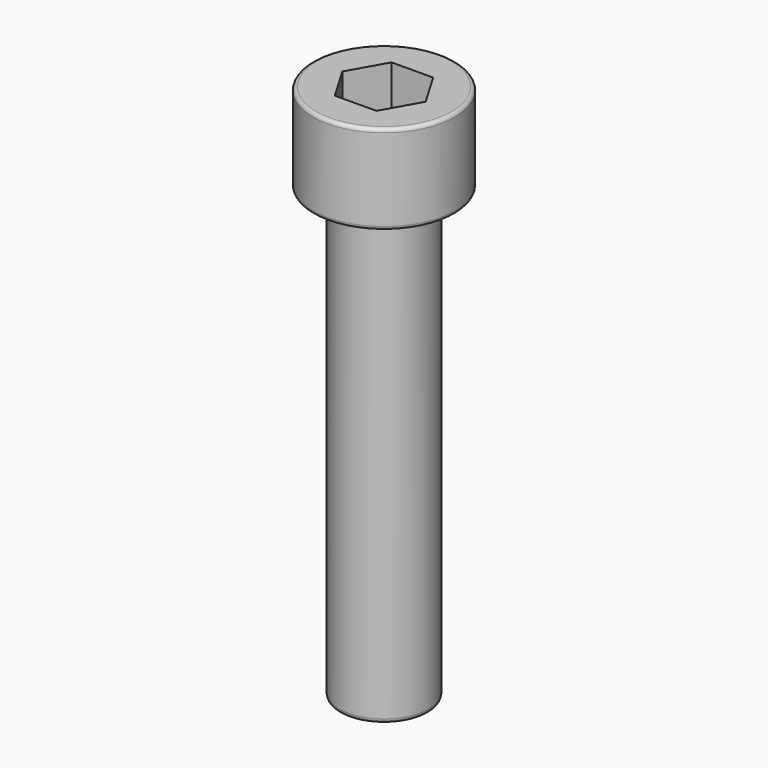
from build123d import *

# Parameters (mm, degrees)
F3_DEPTH = 8
F4_R     = 0.4
F5_R     = 0.5


with BuildPart() as f1:
    # F0 (on Right) → F1 (revolve)
    with BuildSketch(Plane.YZ):
        Polygon((0, -60), (0, 0), (-7.95, 0), (-7.95, -10), (-5, -10), (-5, -60), align=None)
    revolve(axis=Axis((0, 0, -30), (0, 0, -1)))

    # F2 (on face) → F3 (cut)
    with BuildSketch(Plane.XY):
        Polygon((-2.341641, 3.981212), (-4.618651, -0.037314), (-2.277011, -4.018527), (2.341641, -3.981212), (4.618651, 0.037314), (2.277011, 4.018527), align=None)
    extrude(amount=-F3_DEPTH, mode=Mode.SUBTRACT)

    # F4
    f4_edges = [f1.edges().sort_by_distance(p)[0] for p in [
        (0, 7.95, 0),
        (0, 7.95, -10),
    ]]
    fillet(f4_edges, radius=F4_R)

    # F5
    f5_edges = [f1.edges().sort_by_distance(p)[0] for p in [
        (0, 5, -10),
        (0, 5, -60),
    ]]
    fillet(f5_edges, radius=F5_R)


solid = f1.part
